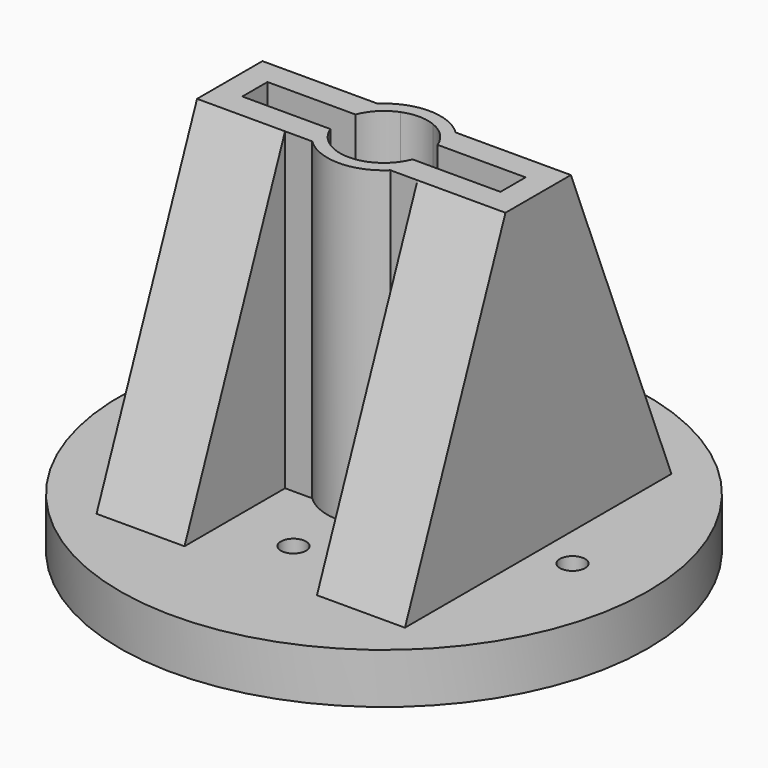
from build123d import *

# Parameters (mm, degrees)
F0_R     = 21
F1_DEPTH = 4
F2_D     = 2
F4_DEPTH = 25
F6_DEPTH = 7


with BuildPart() as f1:
    # F0 (on Top) → F1 (new body)
    with BuildSketch(Plane.XY):
        Circle(F0_R)
    extrude(amount=F1_DEPTH)

    # F2 (through all)
    with Locations(Plane(origin=(0, 0, 0), x_dir=(1, 0, 0), z_dir=(0, 0, -1))):
        with Locations((-15, 0), (0, 9), (0, -9), (15, 0)):
            Hole(F2_D / 2)

    # F3 (on face) → F4 (join)
    with BuildSketch(Plane.XY.offset(4)):
        with BuildLine():
            ThreePointArc((-4.3229041164, 1.25), (-3.8498331493, 2.3299752622), (-3.1124748995, 3.25))
            Line((-3.1124748995, 3.25), (-12.2691742077, 3.25))
            Line((-12.2691742077, 3.25), (-12.2691742077, -3.25))
            Line((-12.2691742077, -3.25), (-3.1124748995, -3.25))
            ThreePointArc((-3.1124748995, -3.25), (-3.8498331493, -2.3299752622), (-4.3229041164, -1.25))
            Line((-4.3229041164, -1.25), (-10.2691742077, -1.25))
            Line((-10.2691742077, -1.25), (-10.2691742077, 1.25))
            Line((-10.2691742077, 1.25), (-4.3229041164, 1.25))
        make_face()
        with BuildLine():
            ThreePointArc((-1.2990381057, 3.25), (0, 3.5), (1.2990381057, 3.25))
            Line((1.2990381057, 3.25), (3.1124748995, 3.25))
            ThreePointArc((3.1124748995, 3.25), (0, 4.5), (-3.1124748995, 3.25))
            Line((-3.1124748995, 3.25), (-1.2990381057, 3.25))
        make_face()
        with BuildLine():
            ThreePointArc((-3.2691742077, 1.25), (-2.4934195265, 2.4561879132), (-1.2990381057, 3.25))
            Line((-1.2990381057, 3.25), (-3.1124748995, 3.25))
            ThreePointArc((-3.1124748995, 3.25), (-3.8498331493, 2.3299752622), (-4.3229041164, 1.25))
            Line((-4.3229041164, 1.25), (-3.2691742077, 1.25))
        make_face()
        with BuildLine():
            Line((-3.1124748995, -3.25), (-1.2990381057, -3.25))
            ThreePointArc((-1.2990381057, -3.25), (-2.4934195265, -2.4561879132), (-3.2691742077, -1.25))
            Line((-3.2691742077, -1.25), (-4.3229041164, -1.25))
            ThreePointArc((-4.3229041164, -1.25), (-3.8498331493, -2.3299752622), (-3.1124748995, -3.25))
        make_face()
        with BuildLine():
            Line((3.1124748995, -3.25), (1.2990381057, -3.25))
            ThreePointArc((1.2990381057, -3.25), (0, -3.5), (-1.2990381057, -3.25))
            Line((-1.2990381057, -3.25), (-3.1124748995, -3.25))
            ThreePointArc((-3.1124748995, -3.25), (0, -4.5), (3.1124748995, -3.25))
        make_face()
        with BuildLine():
            Line((4.3229041164, -1.25), (3.2691742077, -1.25))
            ThreePointArc((3.2691742077, -1.25), (2.4934195265, -2.4561879132), (1.2990381057, -3.25))
            Line((1.2990381057, -3.25), (3.1124748995, -3.25))
            ThreePointArc((3.1124748995, -3.25), (3.8498331493, -2.3299752622), (4.3229041164, -1.25))
        make_face()
        with BuildLine():
            ThreePointArc((1.2990381057, 3.25), (2.4934195265, 2.4561879132), (3.2691742077, 1.25))
            Line((3.2691742077, 1.25), (4.3229041164, 1.25))
            ThreePointArc((4.3229041164, 1.25), (3.8498331493, 2.3299752622), (3.1124748995, 3.25))
            Line((3.1124748995, 3.25), (1.2990381057, 3.25))
        make_face()
        with BuildLine():
            ThreePointArc((3.1124748995, 3.25), (3.8498331493, 2.3299752622), (4.3229041164, 1.25))
            Line((4.3229041164, 1.25), (10.2691742077, 1.25))
            Line((10.2691742077, 1.25), (10.2691742077, -1.25))
            Line((10.2691742077, -1.25), (4.3229041164, -1.25))
            ThreePointArc((4.3229041164, -1.25), (3.8498331493, -2.3299752622), (3.1124748995, -3.25))
            Line((3.1124748995, -3.25), (12.2691742077, -3.25))
            Line((12.2691742077, -3.25), (12.2691742077, 3.25))
            Line((12.2691742077, 3.25), (3.1124748995, 3.25))
        make_face()
    extrude(amount=F4_DEPTH)

    # F5 (on face) → F6 (join)
    with BuildSketch(Plane.YZ.offset(12.2691742077)):
        Polygon((-3.25, 4), (-3.25, 29), (-13.25, 4), align=None)
        Polygon((13.25, 4), (3.25, 29), (3.25, 4), align=None)
    extrude(amount=-F6_DEPTH)

    # F7: F1 across plane


with BuildPart() as f1_1:
    add(f1.part)
    add(f1.part.mirror(Plane.YZ))


solid = f1_1.part
